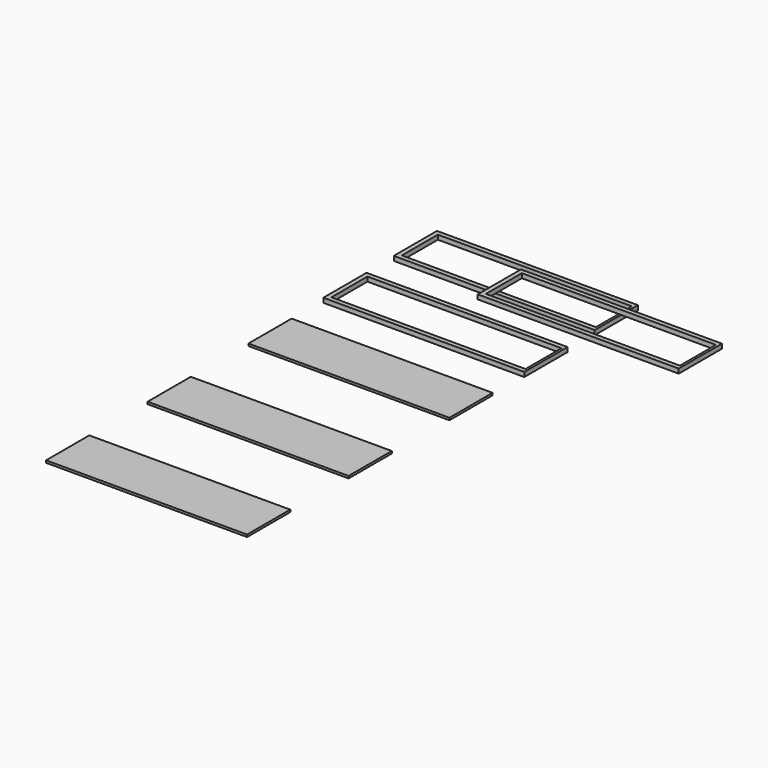
from build123d import *

# Parameters (mm, degrees)
F0_W     = 1701.8
F0_H     = 457.2
F1_DEPTH = 19.05
F2_W     = 1701.8
F2_H     = 457.2
F3_DEPTH = 19.05
F5_W     = 38.1
F5_H     = 381
F5_W_2   = 20.3263852745
F5_H_2   = 38.1
F6_DEPTH = 38.1


with BuildPart() as f1:
    # F0 (on Top) → F1 (new body)
    with BuildSketch(Plane.XY):
        with Locations((-850.9, 228.6)):
            Rectangle(F0_W, F0_H)
    extrude(amount=F1_DEPTH)


with BuildPart() as f3:
    # F2 (on Top) → F3 (new body)
    with BuildSketch(Plane.XY):
        with Locations((-850.9, -838.3884252667)):
            Rectangle(F2_W, F2_H)
    extrude(amount=F3_DEPTH)


with BuildPart() as f4_1:
    # F4: copy of F3
    add(f3.part.moved(Location((0, -1074.86654, 0))))


with BuildPart() as f6:
    # F5 (on Top) → F6 (new body)
    with BuildSketch(Plane.XY):
        Polygon((-1701.8, 792.7592396736), (-20.3263852745, 792.7592396736), (-20.3263852745, 830.8592396736), (-1663.7, 830.8592396736), (-1701.8, 830.8592396736), align=None)
        with Locations((-1682.75, 1021.3592396736)):
            Rectangle(F5_W, F5_H)
        Polygon((-1663.7, 1211.8592396736), (-20.3263852745, 1211.8592396736), (-20.3263852745, 1249.9592396736), (-1701.8, 1249.9592396736), (-1701.8, 1211.8592396736), align=None)
        with Locations((-10.1631926373, 811.8092396736)):
            Rectangle(F5_W_2, F5_H_2)
        with Locations((-10.1631926373, 1021.3592396736)):
            Rectangle(F5_W_2, F5_H)
        with Locations((-10.1631926373, 1230.9092396736)):
            Rectangle(F5_W_2, F5_H_2)
    extrude(amount=F6_DEPTH)


with BuildPart() as f7_1:
    # F7: copy of F6
    add(f6.part.moved(Location((853.74771, 567.24379, 72.26629))))


with BuildPart() as f8_1:
    # F8: copy of F6
    add(f6.part.moved(Location((-10.95446, 759.15956, 0))))


solid = Compound([f1.part, f3.part, f4_1.part, f6.part, f7_1.part, f8_1.part])
